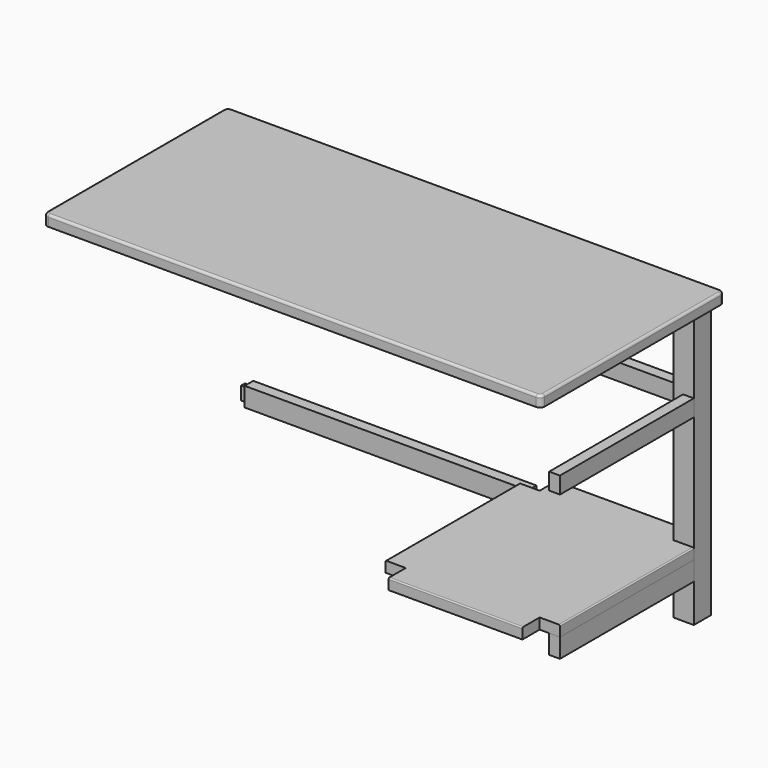
from build123d import *

# Parameters (mm, degrees)
F13_W     = 53.975
F13_H     = 733.425
F15_DEPTH = 57.15
F16_W     = 28.575
F16_H     = 50.8
F17_DEPTH = 355.6
F20_W     = 752.475
F20_H     = 50.8
F21_DEPTH = 28.575
F19_W     = 444.5
F19_H     = 50.8
F23_DEPTH = 28.575
F22_W     = 1320.8
F22_H     = 28.575
F24_DEPTH = 609.6
F25_R     = 12.7
F26_R     = 6.35
F27_W     = 28.575
F27_H     = 444.5
F28_DEPTH = 28.575
F29_R     = 3.175
F30_W     = 444.5
F30_H     = 44.45
F31_DEPTH = 28.575
F32_W     = 355.6
F32_H     = 44.45
F33_DEPTH = 28.575
F34_W     = 12.7
F34_H     = 34.925
F35_DEPTH = 15.875


with BuildPart() as f15:
    # F13 (on plane+point) → F15 (new body, through all)
    with BuildSketch(Plane.XZ.offset(12.7)):
        with Locations((608.0125, -14.2875)):
            Rectangle(F13_W, F13_H)
    extrude(amount=F15_DEPTH)


with BuildPart() as f17:
    # F16 (on face) → F17 (new body, through all)
    with BuildSketch(Plane(origin=(581.025, 0, 0), x_dir=(0, -1, 0), z_dir=(-1, 0, 0))):
        with Locations((33.3375, 327.025)):
            Rectangle(F16_W, F16_H)
    extrude(amount=F17_DEPTH)


with BuildPart() as f21:
    # F20 (on plane+point) → F21 (new body)
    with BuildSketch(Plane.XZ.offset(12.7)):
        with Locations((-204.7875, -254)):
            Rectangle(F20_W, F20_H)
    extrude(amount=F21_DEPTH)

    # F34 (on face) → F35 (join)
    with BuildSketch(Plane(origin=(-581.025, 0, 0), x_dir=(0, -1, 0), z_dir=(-1, 0, 0))):
        with Locations((26.9875, -254)):
            Rectangle(F34_W, F34_H)
    extrude(amount=F35_DEPTH)


with BuildPart() as f23:
    # F19 (on plane+point) → F23 (new body)
    with BuildSketch(Plane.YZ.offset(635)):
        with Locations((-292.1, -254)):
            Rectangle(F19_W, F19_H)
    extrude(amount=-F23_DEPTH)


with BuildPart() as f24:
    # F22 (on Front) → F24 (new body)
    with BuildSketch(Plane.XZ):
        with Locations((0, 366.7125)):
            Rectangle(F22_W, F22_H)
    extrude(amount=F24_DEPTH)

    # F25
    f25_edges = [f24.edges().sort_by_distance(p)[0] for p in [
        (660.4, -609.6, 366.7125),
        (660.4, 0, 366.7125),
        (-660.4, 0, 366.7125),
        (-660.4, -609.6, 366.7125),
    ]]
    fillet(f25_edges, radius=F25_R)

    # F26
    f26_edges = [f24.edges().sort_by_distance(p)[0] for p in [
        (-660.4, -304.8, 381),
    ]]
    fillet(f26_edges, radius=F26_R)


with BuildPart() as f28:
    # F27 (on face) → F28 (new body)
    with BuildSketch(Plane.XY.offset(-228.6)):
        Polygon((606.425, -69.85), (581.025, -69.85), (581.025, -12.7), (403.225, -12.7), (225.425, -12.7), (225.425, -69.85), (171.45, -69.85), (171.45, -514.35), (225.425, -514.35), (225.425, -571.5), (403.225, -571.5), (581.025, -571.5), (581.025, -514.35), (606.425, -514.35), align=None)
        with Locations((620.7125, -292.1)):
            Rectangle(F27_W, F27_H)
    extrude(amount=F28_DEPTH)

    # F29
    f29_edges = [f28.edges().sort_by_distance(p)[0] for p in [
        (403.225, -571.5, -200.025),
        (635, -292.1, -200.025),
        (403.225, -12.7, -200.025),
        (171.45, -292.1, -200.025),
    ]]
    fillet(f29_edges, radius=F29_R)


with BuildPart() as f31:
    # F30 (on plane+point) → F31 (new body)
    with BuildSketch(Plane.YZ.offset(635)):
        with Locations((-292.1, 127)):
            Rectangle(F30_W, F30_H)
    extrude(amount=-F31_DEPTH)


with BuildPart() as f33:
    # F32 (on plane+point) → F33 (new body)
    with BuildSketch(Plane.XZ.offset(12.7)):
        with Locations((403.225, 127)):
            Rectangle(F32_W, F32_H)
    extrude(amount=F33_DEPTH)


solid = Compound([f15.part, f17.part, f21.part, f23.part, f24.part, f28.part, f31.part, f33.part])
